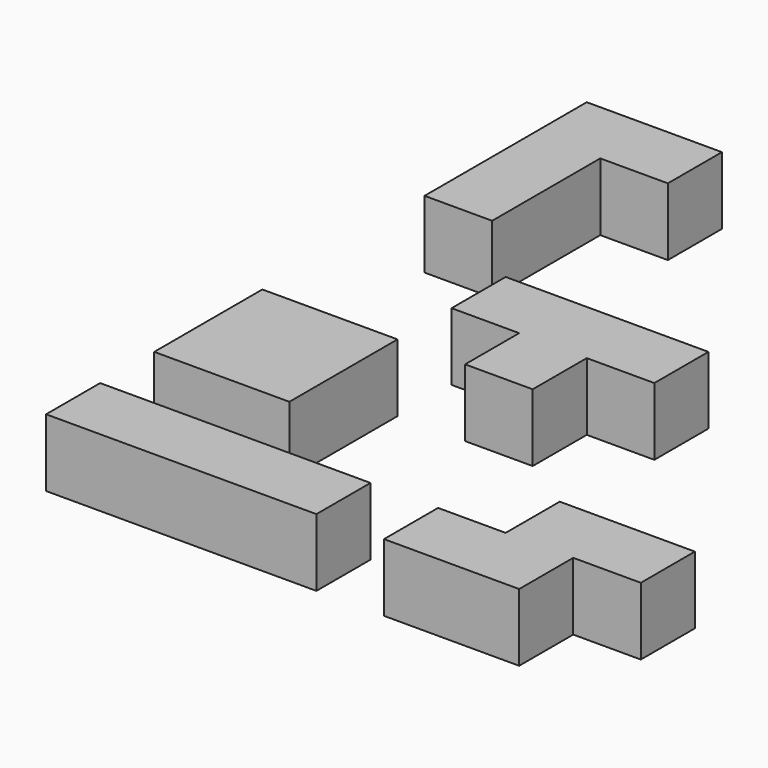
from build123d import *

# Parameters (mm, degrees)
BOX001_W     = 10
BOX001_H     = 10
BOX001_DEPTH = 10
BOX002_W     = 10
BOX002_H     = 10
BOX002_DEPTH = 10
BOX003_W     = 10
BOX003_H     = 10
BOX003_DEPTH = 10
BOX_W        = 10
BOX_H        = 10
BOX_DEPTH    = 10
BOX005_W     = 10
BOX005_H     = 10
BOX005_DEPTH = 10
BOX006_W     = 10
BOX006_H     = 10
BOX006_DEPTH = 10
BOX007_W     = 10
BOX007_H     = 10
BOX007_DEPTH = 10
BOX004_W     = 10
BOX004_H     = 10
BOX004_DEPTH = 10
BOX009_W     = 10
BOX009_H     = 10
BOX009_DEPTH = 10
BOX010_W     = 10
BOX010_H     = 10
BOX010_DEPTH = 10
BOX011_W     = 10
BOX011_H     = 10
BOX011_DEPTH = 10
BOX008_W     = 10
BOX008_H     = 10
BOX008_DEPTH = 10
BOX013_W     = 10
BOX013_H     = 10
BOX013_DEPTH = 10
BOX014_W     = 10
BOX014_H     = 10
BOX014_DEPTH = 10
BOX015_W     = 10
BOX015_H     = 10
BOX015_DEPTH = 10
BOX012_W     = 10
BOX012_H     = 10
BOX012_DEPTH = 10
BOX017_W     = 10
BOX017_H     = 10
BOX017_DEPTH = 10
BOX018_W     = 10
BOX018_H     = 10
BOX018_DEPTH = 10
BOX019_W     = 10
BOX019_H     = 10
BOX019_DEPTH = 10
BOX016_W     = 10
BOX016_H     = 10
BOX016_DEPTH = 10


with BuildPart() as cube001:
    # Box001 → Box001 (new body)
    with BuildSketch(Plane(origin=(10, 0, 0), x_dir=(1, 0, 0), z_dir=(0, 0, 1))):
        with Locations((5, 5)):
            Rectangle(BOX001_W, BOX001_H)
    extrude(amount=BOX001_DEPTH)


with BuildPart() as cube002:
    # Box002 → Box002 (new body)
    with BuildSketch(Plane(origin=(20, 0, 0), x_dir=(1, 0, 0), z_dir=(0, 0, 1))):
        with Locations((5, 5)):
            Rectangle(BOX002_W, BOX002_H)
    extrude(amount=BOX002_DEPTH)


with BuildPart() as cube003:
    # Box003 → Box003 (new body)
    with BuildSketch(Plane(origin=(30, 0, 0), x_dir=(1, 0, 0), z_dir=(0, 0, 1))):
        with Locations((5, 5)):
            Rectangle(BOX003_W, BOX003_H)
    extrude(amount=BOX003_DEPTH)


with BuildPart() as fusion:
    # Box → Box (new body)
    with BuildSketch(Plane.XY):
        with Locations((5, 5)):
            Rectangle(BOX_W, BOX_H)
    extrude(amount=BOX_DEPTH)

    # Fusion: union Cube001, Cube002, Cube003
    add(cube001.part)
    add(cube002.part)
    add(cube003.part)


with BuildPart() as cube005:
    # Box005 → Box005 (new body)
    with BuildSketch(Plane(origin=(10, 20, 0), x_dir=(1, 0, 0), z_dir=(0, 0, 1))):
        with Locations((5, 5)):
            Rectangle(BOX005_W, BOX005_H)
    extrude(amount=BOX005_DEPTH)


with BuildPart() as cube006:
    # Box006 → Box006 (new body)
    with BuildSketch(Plane(origin=(0, 30, 0), x_dir=(1, 0, 0), z_dir=(0, 0, 1))):
        with Locations((5, 5)):
            Rectangle(BOX006_W, BOX006_H)
    extrude(amount=BOX006_DEPTH)


with BuildPart() as cube007:
    # Box007 → Box007 (new body)
    with BuildSketch(Plane(origin=(10, 30, 0), x_dir=(1, 0, 0), z_dir=(0, 0, 1))):
        with Locations((5, 5)):
            Rectangle(BOX007_W, BOX007_H)
    extrude(amount=BOX007_DEPTH)


with BuildPart() as fusion001:
    # Box004 → Box004 (new body)
    with BuildSketch(Plane(origin=(0, 20, 0), x_dir=(1, 0, 0), z_dir=(0, 0, 1))):
        with Locations((5, 5)):
            Rectangle(BOX004_W, BOX004_H)
    extrude(amount=BOX004_DEPTH)

    # Fusion001: union Cube005, Cube006, Cube007
    add(cube005.part)
    add(cube006.part)
    add(cube007.part)


with BuildPart() as cube009:
    # Box009 → Box009 (new body)
    with BuildSketch(Plane(origin=(60, 0, 0), x_dir=(1, 0, 0), z_dir=(0, 0, 1))):
        with Locations((5, 5)):
            Rectangle(BOX009_W, BOX009_H)
    extrude(amount=BOX009_DEPTH)


with BuildPart() as cube010:
    # Box010 → Box010 (new body)
    with BuildSketch(Plane(origin=(60, 10, 0), x_dir=(1, 0, 0), z_dir=(0, 0, 1))):
        with Locations((5, 5)):
            Rectangle(BOX010_W, BOX010_H)
    extrude(amount=BOX010_DEPTH)


with BuildPart() as cube011:
    # Box011 → Box011 (new body)
    with BuildSketch(Plane(origin=(70, 10, 0), x_dir=(1, 0, 0), z_dir=(0, 0, 1))):
        with Locations((5, 5)):
            Rectangle(BOX011_W, BOX011_H)
    extrude(amount=BOX011_DEPTH)


with BuildPart() as fusion002:
    # Box008 → Box008 (new body)
    with BuildSketch(Plane(origin=(50, 0, 0), x_dir=(1, 0, 0), z_dir=(0, 0, 1))):
        with Locations((5, 5)):
            Rectangle(BOX008_W, BOX008_H)
    extrude(amount=BOX008_DEPTH)

    # Fusion002: union Cube009, Cube010, Cube011
    add(cube009.part)
    add(cube010.part)
    add(cube011.part)


with BuildPart() as cube013:
    # Box013 → Box013 (new body)
    with BuildSketch(Plane(origin=(40, 50, 0), x_dir=(1, 0, 0), z_dir=(0, 0, 1))):
        with Locations((5, 5)):
            Rectangle(BOX013_W, BOX013_H)
    extrude(amount=BOX013_DEPTH)


with BuildPart() as cube014:
    # Box014 → Box014 (new body)
    with BuildSketch(Plane(origin=(30, 50, 0), x_dir=(1, 0, 0), z_dir=(0, 0, 1))):
        with Locations((5, 5)):
            Rectangle(BOX014_W, BOX014_H)
    extrude(amount=BOX014_DEPTH)


with BuildPart() as cube015:
    # Box015 → Box015 (new body)
    with BuildSketch(Plane(origin=(20, 50, 0), x_dir=(1, 0, 0), z_dir=(0, 0, 1))):
        with Locations((5, 5)):
            Rectangle(BOX015_W, BOX015_H)
    extrude(amount=BOX015_DEPTH)


with BuildPart() as fusion003:
    # Box012 → Box012 (new body)
    with BuildSketch(Plane(origin=(30, 40, 0), x_dir=(1, 0, 0), z_dir=(0, 0, 1))):
        with Locations((5, 5)):
            Rectangle(BOX012_W, BOX012_H)
    extrude(amount=BOX012_DEPTH)

    # Fusion003: union Cube013, Cube014, Cube015
    add(cube013.part)
    add(cube014.part)
    add(cube015.part)


with BuildPart() as cube017:
    # Box017 → Box017 (new body)
    with BuildSketch(Plane(origin=(0, 80, 0), x_dir=(1, 0, 0), z_dir=(0, 0, 1))):
        with Locations((5, 5)):
            Rectangle(BOX017_W, BOX017_H)
    extrude(amount=BOX017_DEPTH)


with BuildPart() as cube018:
    # Box018 → Box018 (new body)
    with BuildSketch(Plane(origin=(0, 90, 0), x_dir=(1, 0, 0), z_dir=(0, 0, 1))):
        with Locations((5, 5)):
            Rectangle(BOX018_W, BOX018_H)
    extrude(amount=BOX018_DEPTH)


with BuildPart() as cube019:
    # Box019 → Box019 (new body)
    with BuildSketch(Plane(origin=(10, 90, 0), x_dir=(1, 0, 0), z_dir=(0, 0, 1))):
        with Locations((5, 5)):
            Rectangle(BOX019_W, BOX019_H)
    extrude(amount=BOX019_DEPTH)


with BuildPart() as fusion004:
    # Box016 → Box016 (new body)
    with BuildSketch(Plane(origin=(0, 70, 0), x_dir=(1, 0, 0), z_dir=(0, 0, 1))):
        with Locations((5, 5)):
            Rectangle(BOX016_W, BOX016_H)
    extrude(amount=BOX016_DEPTH)

    # Fusion004: union Cube017, Cube018, Cube019
    add(cube017.part)
    add(cube018.part)
    add(cube019.part)


solid = Compound([fusion.part, fusion001.part, fusion002.part, fusion003.part, fusion004.part])
